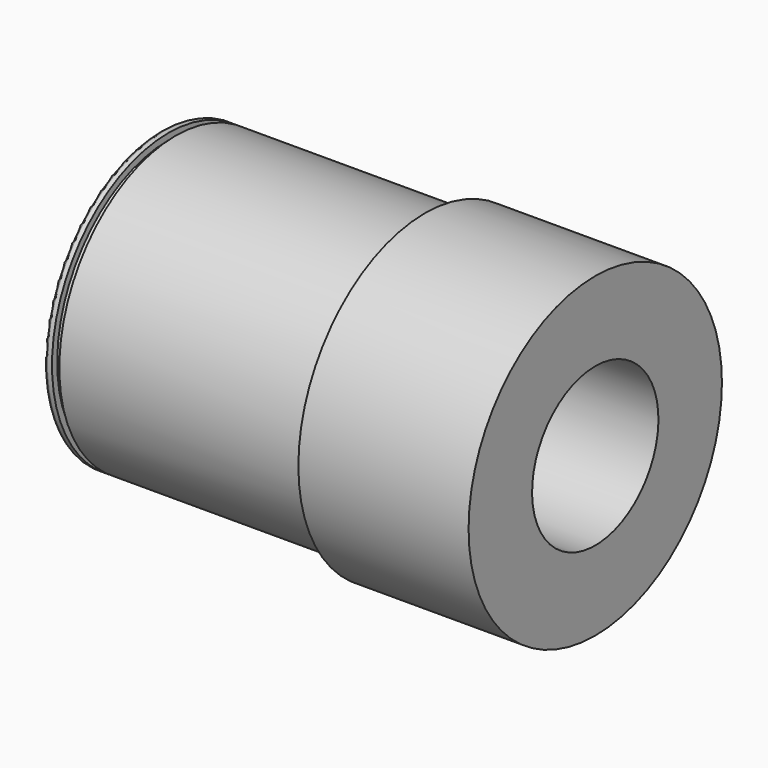
from build123d import *

# Parameters (mm, degrees)
F2_DEPTH = 0.58


with BuildPart() as f1:
    # F0 (on Front) → F1 (revolve)
    with BuildSketch(Plane.XZ):
        with BuildLine():
            Line((-189.1, 38), (0, 38))
            Line((0, 38), (0, 76.2))
            Line((0, 76.2), (-82.5, 76.2))
            Line((-82.5, 76.2), (-82.5, 70))
            Line((-82.5, 70), (-201.92, 70))
            Line((-201.92, 70), (-201.92, 66.8655))
            Line((-201.92, 66.8655), (-205.4506, 66.8655))
            Line((-205.4506, 66.8655), (-205.4506, 70))
            Line((-205.4506, 70), (-207.6, 70))
            ThreePointArc((-207.6, 70), (-208.6606601718, 69.5606601718), (-209.1, 68.5))
            Line((-209.1, 68.5), (-209.1, 58))
            ThreePointArc((-209.1, 58), (-203.2421356237, 43.8578643763), (-189.1, 38))
        make_face()
    revolve(axis=Axis((-178.9006441832, 0, 0), (-1, 0, 0)))

    # F2 (cut): faces of the model
    f2_faces = [f1.faces().sort_by_distance(p)[0] for p in [
        (-209.1, 0, -66.5625274195),
        (-82.5, 0, -74.0447385309),
    ]]
    extrude(f2_faces, amount=-F2_DEPTH, mode=Mode.SUBTRACT)


solid = f1.part
